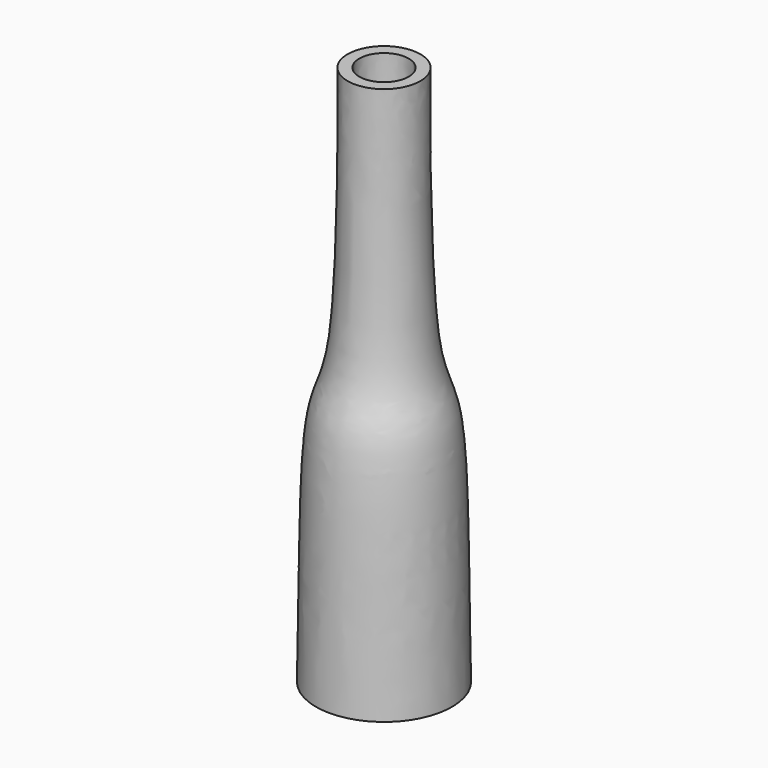
from build123d import *


with BuildPart() as f1:
    # F0 (on Right) → F1 (revolve)
    with BuildSketch(Plane.YZ):
        with BuildLine():
            Line((-10.668, 158.4571413895), (-15.748, 158.4571413895))
            add(Edge.make_bspline(
                [(-15.748, 158.4571413895), (-15.7586041273, 140.1132282891), (-15.1839569789, 50.2783490294), (-28.8444096522, 29.0951899544), (-28.4260051037, -10.7983063939), (-29.4132, -75.3721110722)],
                knots=[0, 0, 0, 0, 0.4022517046, 0.5945713328, 1, 1, 1, 1], degree=3))
            Line((-29.4132, -75.3721110722), (-24.3332, -75.3721110722))
            add(Edge.make_bspline(
                [(-10.668, 158.4571413895), (-11.0179023524, 138.934687694), (-9.2416170133, 48.7362618905), (-22.9219315725, 28.2703851045), (-23.6097492955, -14.8349242121), (-24.3332, -75.3721110722)],
                knots=[0, 0, 0, 0, 0.4049717514, 0.5972859317, 1, 1, 1, 1], degree=3))
        make_face()
    revolve(axis=Axis((0, 0, 15.6193301082), (0, 0, 1)))


solid = f1.part
